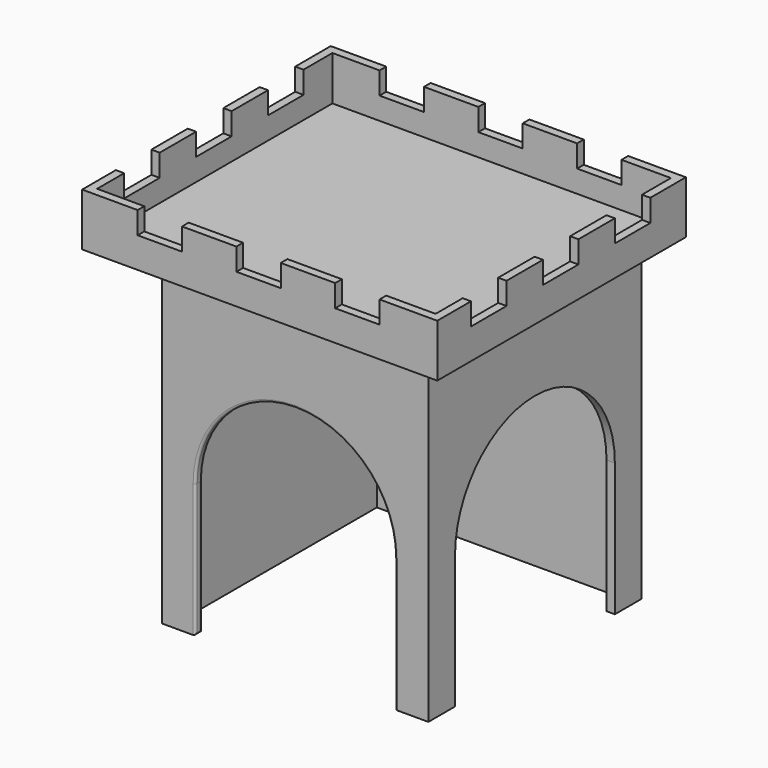
from build123d import *

# Parameters (mm, degrees)
F0_W      = 609.6
F0_H      = 609.6
F0_W_2    = 571.5
F0_H_2    = 571.5
F1_DEPTH  = 381
F3_DEPTH  = 25.4
F5_DEPTH  = 25.4
F6_R      = 5.08
F7_W      = 812.8
F7_H      = 711.2
F8_DEPTH  = 19.05
F9_W      = 812.8
F9_H      = 711.2
F9_W_2    = 774.7
F9_H_2    = 673.1
F10_DEPTH = 101.6
F11_W     = 101.6
F11_H     = 50.8
F12_DEPTH = 711.201
F13_W     = 101.6
F13_H     = 50.8
F14_DEPTH = 812.801


with BuildPart() as f1:
    # F0 (on Top) → F1 (new body, symmetric)
    with BuildSketch(Plane.XY):
        Rectangle(F0_W, F0_H)
        Rectangle(F0_W_2, F0_H_2, mode=Mode.SUBTRACT)
    extrude(amount=F1_DEPTH, both=True)

    # F2 (on face) → F3 (cut)
    with BuildSketch(Plane.XZ.offset(304.8)):
        with BuildLine():
            Line((-228.6, -76.2), (-228.6, -381))
            Line((-228.6, -381), (228.6, -381))
            Line((228.6, -381), (228.6, -76.2))
            ThreePointArc((228.6, -76.2), (0, 152.4), (-228.6, -76.2))
        make_face()
    extrude(amount=-F3_DEPTH, mode=Mode.SUBTRACT)

    # F4 (on face) → F5 (cut)
    with BuildSketch(Plane.YZ.offset(304.8)):
        with BuildLine():
            Line((-228.6, -76.2), (-228.6, -381))
            Line((-228.6, -381), (228.6, -381))
            Line((228.6, -381), (228.6, -76.2))
            ThreePointArc((228.6, -76.2), (0, 152.4), (-228.6, -76.2))
        make_face()
    extrude(amount=-F5_DEPTH, mode=Mode.SUBTRACT)

    # F6
    f6_edges = [f1.edges().sort_by_distance(p)[0] for p in [
        (-228.6, -304.8, -228.6),
        (-228.6, -295.275, -381),
        (-228.6, -285.75, -228.6),
        (-228.6, -295.275, -76.2),
        (0, -304.8, 152.4),
        (0, -285.75, 152.4),
        (228.6, -295.275, -76.2),
        (228.6, -304.8, -228.6),
        (228.6, -285.75, -228.6),
        (228.6, -295.275, -381),
    ]]
    fillet(f6_edges, radius=F6_R)

    # F7 (on face) → F8 (join)
    with BuildSketch(Plane.XY.offset(381)):
        with Locations((0, -50.8)):
            Rectangle(F7_W, F7_H)
    extrude(amount=F8_DEPTH)

    # F9 (on face) → F10 (join)
    with BuildSketch(Plane.XY.offset(400.05)):
        with Locations((0, -50.8)):
            Rectangle(F9_W, F9_H)
        with Locations((0, -50.8)):
            Rectangle(F9_W_2, F9_H_2, mode=Mode.SUBTRACT)
    extrude(amount=F10_DEPTH)

    # F11 (on face) → F12 (cut, through all)
    with BuildSketch(Plane.XZ.offset(406.4)):
        with Locations((-228.6, 476.25)):
            Rectangle(F11_W, F11_H)
        with Locations((-2.54, 476.25)):
            Rectangle(F11_W, F11_H)
        with Locations((223.52, 476.25)):
            Rectangle(F11_W, F11_H)
    extrude(amount=-F12_DEPTH, mode=Mode.SUBTRACT)

    # F13 (on face) → F14 (cut, through all)
    with BuildSketch(Plane(origin=(-406.4, 0, 0), x_dir=(0, -1, 0), z_dir=(-1, 0, 0))):
        with Locations((-152.4, 476.25)):
            Rectangle(F13_W, F13_H)
        with Locations((53.34, 476.25)):
            Rectangle(F13_W, F13_H)
        with Locations((259.08, 476.25)):
            Rectangle(F13_W, F13_H)
    extrude(amount=-F14_DEPTH, mode=Mode.SUBTRACT)


solid = f1.part
